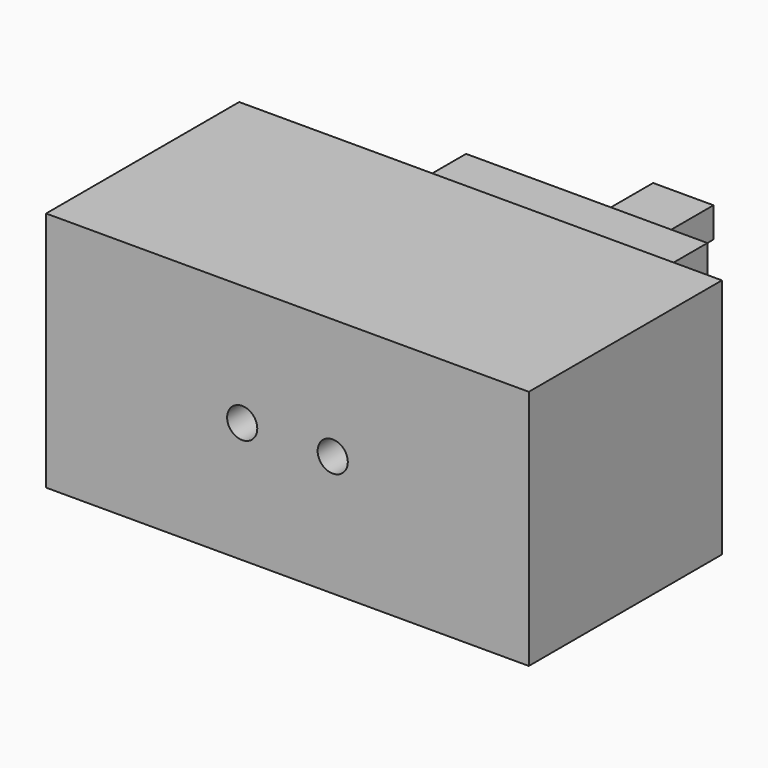
from build123d import *

# Parameters (mm, degrees)
F0_W     = 50.8
F0_H     = 25.4
F0_R     = 1.5875
F1_DEPTH = 25.4
F2_R     = 2.54
F3_DEPTH = 7.62
F4_W     = 25.4
F4_H     = 12.7
F5_DEPTH = 6.35
F6_W     = 6.35
F6_H     = 3.175
F7_DEPTH = 12.7
F8_DEPTH = 19.05


with BuildPart() as f1:
    # F0 (on Front) → F1 (new body)
    with BuildSketch(Plane.XZ):
        Rectangle(F0_W, F0_H)
        with Locations((-4.7625, 0)):
            Circle(F0_R, mode=Mode.SUBTRACT)
        with Locations((4.7625, 0)):
            Circle(F0_R, mode=Mode.SUBTRACT)
        with Locations((4.7625, 0)):
            Circle(F0_R)
        with Locations((-4.7625, 0)):
            Circle(F0_R)
    extrude(amount=-F1_DEPTH)

    # F2 (on face) → F3 (join)
    with BuildSketch(Plane(origin=(0, 25.4, 0), x_dir=(-1, 0, 0), z_dir=(0, 1, 0))):
        Circle(F2_R)
    extrude(amount=F3_DEPTH)

    # F4 (on face) → F5 (join)
    with BuildSketch(Plane(origin=(0, 33.02, 0), x_dir=(-1, 0, 0), z_dir=(0, 1, 0))):
        Rectangle(F4_W, F4_H)
    extrude(amount=F5_DEPTH)

    # F6 (on face) → F7 (join)
    with BuildSketch(Plane(origin=(0, 39.37, 0), x_dir=(-1, 0, 0), z_dir=(0, 1, 0))):
        Rectangle(F6_W, F6_H)
    extrude(amount=F7_DEPTH)

    # F0 (on Front) → F8 (cut)
    with BuildSketch(Plane.XZ):
        with Locations((4.7625, 0)):
            Circle(F0_R)
        with Locations((-4.7625, 0)):
            Circle(F0_R)
    extrude(amount=-F8_DEPTH, mode=Mode.SUBTRACT)


solid = f1.part
